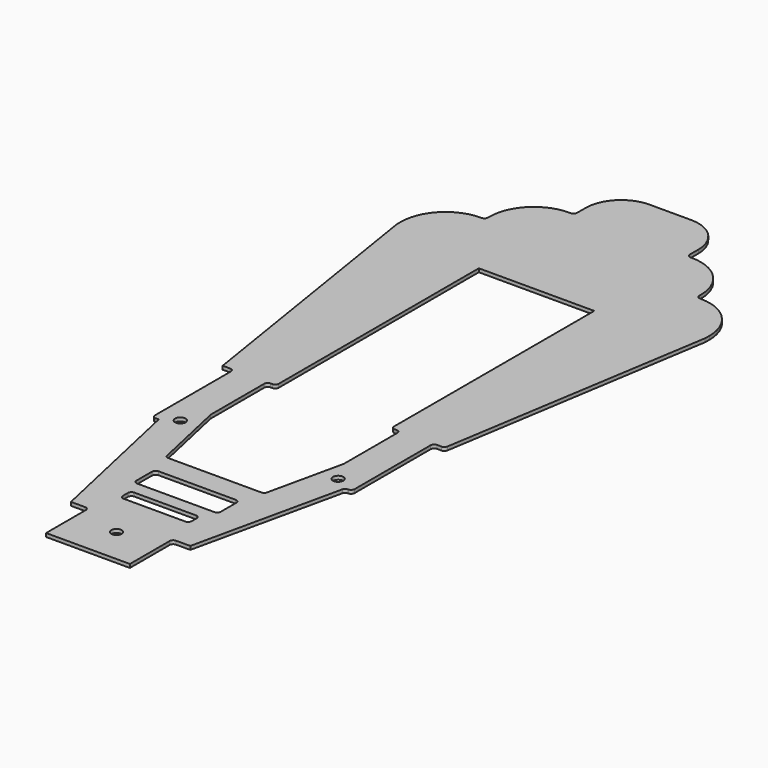
from build123d import *

# Parameters (mm, degrees)
F0_R     = 1.175
F1_DEPTH = 0.79375


with BuildPart() as f1:
    # F0 (on Top) → F1 (new body)
    with BuildSketch(Plane.XY):
        with BuildLine():
            Line((-95.623562, 91.834139), (-95.623562, 90.626995))
            Line((-95.623562, 90.626995), (-85.873562, 29.398428))
            Line((-85.873562, 29.398428), (-84.167312, 29.398428))
            ThreePointArc((-84.167312, 29.398428), (-83.606046, 29.165944), (-83.373562, 28.604678))
            Line((-83.373562, 28.604678), (-83.373562, 7.192178))
            ThreePointArc((-83.373562, 7.192178), (-83.141078, 6.630911), (-82.579812, 6.398428))
            Line((-82.579812, 6.398428), (-81.873562, 6.398428))
            Line((-81.873562, 6.398428), (-74.314535, -27.775555))
            Line((-74.314535, -27.775555), (-71.108285, -27.775555))
            ThreePointArc((-71.108285, -27.775555), (-70.547019, -28.008039), (-70.314535, -28.569305))
            Line((-70.314535, -28.569305), (-70.314535, -39.775555))
            Line((-70.314535, -39.775555), (-51.43259, -39.775555))
            Line((-51.43259, -39.775555), (-51.43259, -28.569305))
            ThreePointArc((-51.43259, -28.569305), (-51.200106, -28.008039), (-50.63884, -27.775555))
            Line((-50.63884, -27.775555), (-47.43259, -27.775555))
            Line((-47.43259, -27.775555), (-40.011215, 5.776105))
            ThreePointArc((-40.011215, 5.776105), (-39.733173, 6.223592), (-39.236198, 6.398428))
            Line((-39.236198, 6.398428), (-39.167312, 6.398428))
            ThreePointArc((-39.167312, 6.398428), (-38.606046, 6.630911), (-38.373562, 7.192178))
            Line((-38.373562, 7.192178), (-38.373562, 28.604678))
            ThreePointArc((-38.373562, 28.604678), (-38.141078, 29.165944), (-37.579812, 29.398428))
            Line((-37.579812, 29.398428), (-36.550917, 29.398428))
            ThreePointArc((-36.550917, 29.398428), (-36.035669, 29.58839), (-35.767043, 30.067354))
            Line((-35.767043, 30.067354), (-26.123562, 90.626995))
            Line((-26.123562, 90.626995), (-26.123562, 91.834139))
            ThreePointArc((-26.123562, 91.834139), (-29.052495, 98.905207), (-36.123562, 101.834139))
            Line((-36.123562, 101.834139), (-36.267312, 101.834139))
            ThreePointArc((-36.267312, 101.834139), (-36.828578, 102.066623), (-37.061062, 102.627889))
            Line((-37.061062, 102.627889), (-37.061062, 103.041283))
            ThreePointArc((-37.061062, 103.041283), (-39.989995, 110.112351), (-47.061062, 113.041283))
            Line((-47.061062, 113.041283), (-47.379812, 113.041283))
            ThreePointArc((-47.379812, 113.041283), (-47.941078, 113.273767), (-48.173562, 113.835033))
            Line((-48.173562, 113.835033), (-48.173562, 116.248428))
            ThreePointArc((-48.173562, 116.248428), (-50.516708, 121.905282), (-56.173562, 124.248428))
            Line((-56.173562, 124.248428), (-65.573562, 124.248428))
            ThreePointArc((-65.573562, 124.248428), (-71.230417, 121.905282), (-73.573562, 116.248428))
            Line((-73.573562, 116.248428), (-73.573562, 113.835033))
            ThreePointArc((-73.573562, 113.835033), (-73.806046, 113.273767), (-74.367312, 113.041283))
            Line((-74.367312, 113.041283), (-74.686062, 113.041283))
            ThreePointArc((-74.686062, 113.041283), (-81.75713, 110.112351), (-84.686062, 103.041283))
            Line((-84.686062, 103.041283), (-84.686062, 102.627889))
            ThreePointArc((-84.686062, 102.627889), (-84.918546, 102.066623), (-85.479812, 101.834139))
            Line((-85.479812, 101.834139), (-85.623562, 101.834139))
            ThreePointArc((-85.623562, 101.834139), (-92.69463, 98.905207), (-95.623562, 91.834139))
        make_face()
        with Locations((-78.657184, 8.448236)):
            Circle(F0_R, mode=Mode.SUBTRACT)
        with Locations((-60.873562, -31.726764)):
            Circle(F0_R, mode=Mode.SUBTRACT)
        with BuildLine():
            Line((-67.829812, -18.051764), (-53.917312, -18.051764))
            ThreePointArc((-53.917312, -18.051764), (-53.356046, -18.284248), (-53.123562, -18.845514))
            Line((-53.123562, -18.845514), (-53.123562, -20.258014))
            ThreePointArc((-53.123562, -20.258014), (-53.356046, -20.81928), (-53.917312, -21.051764))
            Line((-53.917312, -21.051764), (-67.829812, -21.051764))
            ThreePointArc((-67.829812, -21.051764), (-68.391078, -20.81928), (-68.623562, -20.258014))
            Line((-68.623562, -20.258014), (-68.623562, -18.845514))
            ThreePointArc((-68.623562, -18.845514), (-68.391078, -18.284248), (-67.829812, -18.051764))
        make_face(mode=Mode.SUBTRACT)
        with BuildLine():
            Line((-69.579812, -9.051764), (-52.167312, -9.051764))
            ThreePointArc((-52.167312, -9.051764), (-51.606046, -9.284248), (-51.373562, -9.845514))
            Line((-51.373562, -9.845514), (-51.373562, -14.258014))
            ThreePointArc((-51.373562, -14.258014), (-51.606046, -14.81928), (-52.167312, -15.051764))
            Line((-52.167312, -15.051764), (-69.579812, -15.051764))
            ThreePointArc((-69.579812, -15.051764), (-70.141078, -14.81928), (-70.373562, -14.258014))
            Line((-70.373562, -14.258014), (-70.373562, -9.845514))
            ThreePointArc((-70.373562, -9.845514), (-70.141078, -9.284248), (-69.579812, -9.051764))
        make_face(mode=Mode.SUBTRACT)
        with BuildLine():
            Line((-73.873562, 30.192178), (-73.873562, 86.548428))
            Line((-73.873562, 86.548428), (-47.873562, 86.548428))
            Line((-47.873562, 86.548428), (-47.873562, 30.192178))
            ThreePointArc((-47.873562, 30.192178), (-47.641078, 29.630911), (-47.079812, 29.398428))
            Line((-47.079812, 29.398428), (-46.667312, 29.398428))
            ThreePointArc((-46.667312, 29.398428), (-46.106046, 29.165944), (-45.873562, 28.604678))
            Line((-45.873562, 28.604678), (-45.873562, 13.523428))
            Line((-45.873562, 13.523428), (-49.623409, -3.429442))
            ThreePointArc((-49.623409, -3.429442), (-49.901452, -3.876928), (-50.398426, -4.051764))
            Line((-50.398426, -4.051764), (-71.348698, -4.051764))
            ThreePointArc((-71.348698, -4.051764), (-71.845673, -3.876928), (-72.123715, -3.429442))
            Line((-72.123715, -3.429442), (-75.873562, 13.523428))
            Line((-75.873562, 13.523428), (-75.873562, 28.604678))
            ThreePointArc((-75.873562, 28.604678), (-75.641078, 29.165944), (-75.079812, 29.398428))
            Line((-75.079812, 29.398428), (-74.667312, 29.398428))
            ThreePointArc((-74.667312, 29.398428), (-74.106046, 29.630911), (-73.873562, 30.192178))
        make_face(mode=Mode.SUBTRACT)
        with Locations((-43.08994, 8.448236)):
            Circle(F0_R, mode=Mode.SUBTRACT)
    extrude(amount=F1_DEPTH)


solid = f1.part
